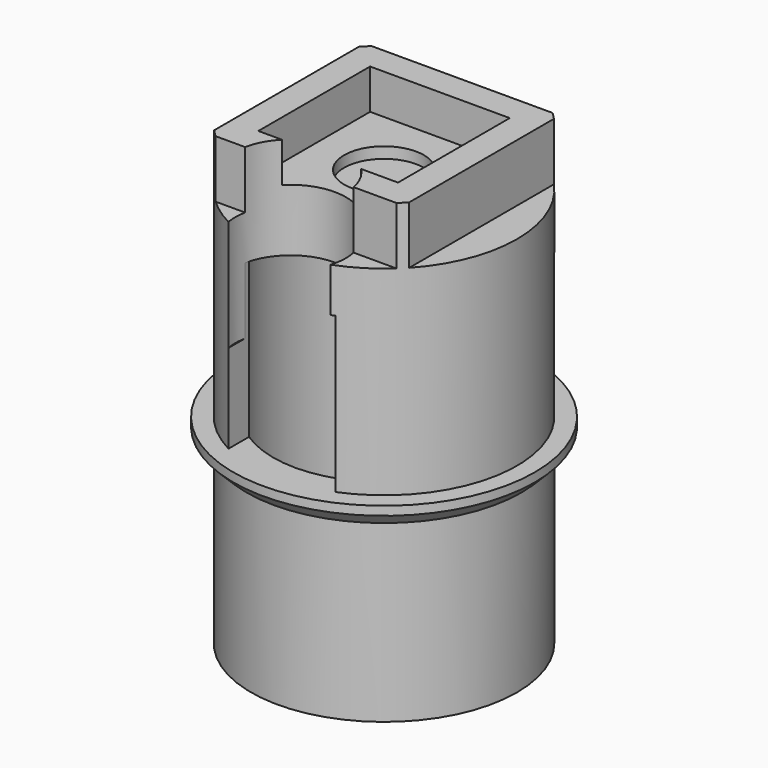
from build123d import *

# Parameters (mm, degrees)
CYLINDER001_R     = 2.5
CYLINDER001_DEPTH = 10
CYLINDER_R        = 6
CYLINDER_DEPTH    = 3
SKETCH007_R       = 6.8
SKETCH007_R_2     = 5
PAD004_DEPTH      = 1
SKETCH006_W       = 5
SKETCH006_H       = 8
PAD003_DEPTH      = 10
SKETCH004_R       = 6
PAD002_DEPTH      = 18
SKETCH005_R       = 5
POCKET002_DEPTH   = 16
SKETCH003_R       = 6
PAD001_DEPTH      = 10
SKETCH_W          = 8.8
SKETCH_H          = 8.8
PAD_DEPTH         = 2.6
SKETCH001_W       = 6.3
SKETCH001_H       = 6.3
POCKET_DEPTH      = 1.8
SKETCH002_R       = 1.8
POCKET001_DEPTH   = 0.5
CHAMFER_SIZE      = 0.6


with BuildPart() as cylinder001:
    # Cylinder001 → Cylinder001 (new body)
    with BuildSketch(Plane(origin=(4.1, -9.3, -5), x_dir=(1, 0, 0), z_dir=(0, 0, 1))):
        Circle(CYLINDER001_R)
    extrude(amount=CYLINDER001_DEPTH)


with BuildPart() as sphere:
    # Sphere → Sphere (revolve)
    with BuildSketch(Plane(origin=(4.4, -4.4, -7.3), x_dir=(1, 0, 0), z_dir=(0, -1, 0))):
        with BuildLine():
            ThreePointArc((0.178015, -10.198446), (10.199612, 0.089011), (0, 10.2))
            Line((0, 10.2), (0, -10.198446))
            Line((0, -10.198446), (0.178015, -10.198446))
        make_face()
    revolve(axis=Axis((4.4, -4.4, -7.3), (0, 0, 1)))


with BuildPart() as cut001:
    # Cylinder → Cylinder (new body)
    with BuildSketch(Plane(origin=(4.4, -4.4, -18), x_dir=(1, 0, 0), z_dir=(0, 0, 1))):
        Circle(CYLINDER_R)
    extrude(amount=CYLINDER_DEPTH)

    # Cut001: cut Sphere
    add(sphere.part, mode=Mode.SUBTRACT)


with BuildPart() as pad004:
    # Sketch007 → Pad004 (new body)
    with BuildSketch(Plane.XY.offset(-10)):
        with Locations((4.4, -4.4)):
            Circle(SKETCH007_R)
        with Locations((4.4, -4.4)):
            Circle(SKETCH007_R_2, mode=Mode.SUBTRACT)
    extrude(amount=PAD004_DEPTH)


with BuildPart() as pad003:
    # Sketch006 → Pad003 (new body)
    with BuildSketch(Plane(origin=(0, -1, -2), x_dir=(1, 0, 0), z_dir=(0, -1, 0))):
        with Locations((4.15, -4)):
            Rectangle(SKETCH006_W, SKETCH006_H)
    extrude(amount=PAD003_DEPTH)


with BuildPart() as cut:
    # Sketch004 → Pad002 (new body)
    with BuildSketch(Plane.XY):
        with Locations((4.4, -4.4)):
            Circle(SKETCH004_R)
    extrude(amount=-PAD002_DEPTH)

    # Sketch005 → Pocket002 (cut)
    with BuildSketch(Plane(origin=(0, 0, -18), x_dir=(1, 0, 0), z_dir=(0, 0, -1))):
        with Locations((4.4, 4.4)):
            Circle(SKETCH005_R)
    extrude(amount=-POCKET002_DEPTH, mode=Mode.SUBTRACT)

    # Cut: cut Pad003
    add(pad003.part, mode=Mode.SUBTRACT)


with BuildPart() as pad001:
    # Sketch003 → Pad001 (new body)
    with BuildSketch(Plane.XY):
        with Locations((4.4, -4.4)):
            Circle(SKETCH003_R)
    extrude(amount=PAD001_DEPTH)


with BuildPart() as cut002:
    # Sketch → Pad (new body)
    with BuildSketch(Plane.XY):
        with Locations((4.4, -4.4)):
            Rectangle(SKETCH_W, SKETCH_H)
    extrude(amount=PAD_DEPTH)

    # Sketch001 → Pocket (cut)
    with BuildSketch(Plane.XY.offset(2.6)):
        with Locations((4.4, -4.4)):
            Rectangle(SKETCH001_W, SKETCH001_H)
    extrude(amount=-POCKET_DEPTH, mode=Mode.SUBTRACT)

    # Sketch002 → Pocket001 (cut)
    with BuildSketch(Plane.XY.offset(0.8)):
        with Locations((4.4, -4.4)):
            Circle(SKETCH002_R)
    extrude(amount=-POCKET001_DEPTH, mode=Mode.SUBTRACT)

    # Common: intersect Pad001
    add(pad001.part, mode=Mode.INTERSECT)

    # Fusion: union Cut
    add(cut.part)

    # Fusion001: union Pad004
    add(pad004.part)

    # Fusion002: union Cut001
    add(cut001.part)

    # Chamfer
    chamfer_edges = [cut002.edges().sort_by_distance(p)[0] for p in [
        (-2.4, -4.4, -10),
    ]]
    chamfer(chamfer_edges, length=CHAMFER_SIZE)

    # Cut002: cut Cylinder001
    add(cylinder001.part, mode=Mode.SUBTRACT)


solid = cut002.part
